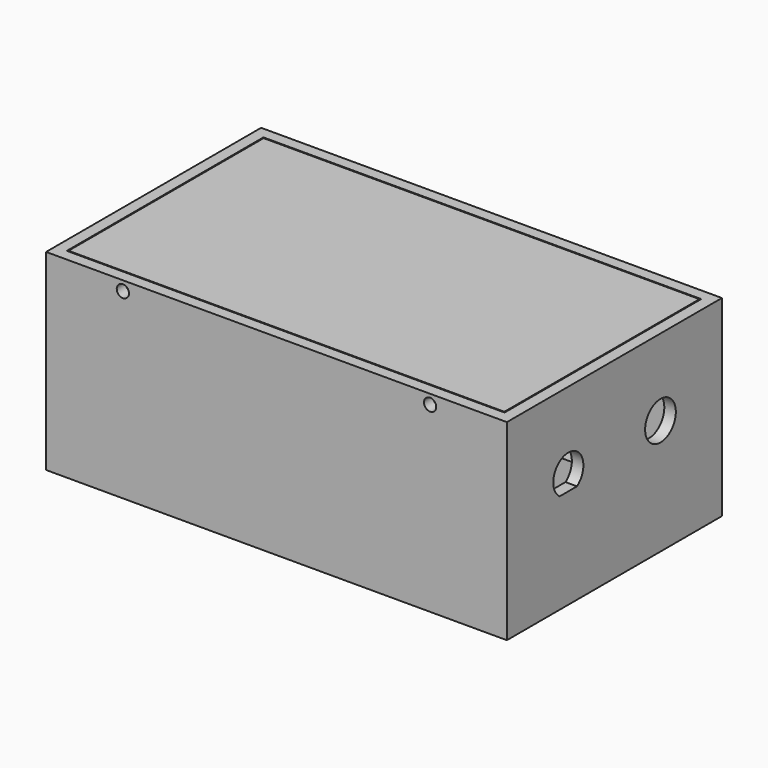
from build123d import *

# Parameters (mm, degrees)
SKETCH_W        = 120
SKETCH_H        = 70
PAD_DEPTH       = 50
SKETCH001_W     = 114
SKETCH001_H     = 64
POCKET_DEPTH    = 40.3
SKETCH002_R     = 2.5
SKETCH002_W     = 97.5
SKETCH002_H     = 40
POCKET001_DEPTH = 9.701
SKETCH003_R     = 5
POCKET002_DEPTH = 5
SKETCH005_R     = 1.6
POCKET003_DEPTH = 70.001
SKETCH004_W     = 113.5
SKETCH004_H     = 63.5
PAD001_DEPTH    = 5
SKETCH006_R     = 1.55
POCKET004_DEPTH = 10


with BuildPart() as box:
    # Sketch → Pad (new body)
    with BuildSketch(Plane.XY):
        Rectangle(SKETCH_W, SKETCH_H)
    extrude(amount=PAD_DEPTH)

    # Sketch001 (on Face6 of Pad) → Pocket (cut)
    with BuildSketch(Plane.XY.offset(50)):
        Rectangle(SKETCH001_W, SKETCH001_H)
    extrude(amount=-POCKET_DEPTH, mode=Mode.SUBTRACT)

    # Sketch002 (on Face11 of Pocket) → Pocket001 (cut, through all)
    with BuildSketch(Plane.XY.offset(9.7)):
        with Locations((-52.5, -27.5)):
            Circle(SKETCH002_R)
        with Locations((-52.5, 27.5)):
            Circle(SKETCH002_R)
        with Locations((40, 27.5)):
            Circle(SKETCH002_R)
        with Locations((40, -27.5)):
            Circle(SKETCH002_R)
        with Locations((-6.25, 0)):
            Rectangle(SKETCH002_W, SKETCH002_H)
    extrude(amount=-POCKET001_DEPTH, mode=Mode.SUBTRACT)

    # Sketch003 (on Face6 of Pocket001) → Pocket002 (cut)
    with BuildSketch(Plane.YZ.offset(60)):
        with Locations((15, 30)):
            Circle(SKETCH003_R)
        with BuildLine():
            ThreePointArc((-12.169806, 26), (-15, 34.9), (-17.830194, 26))
            Line((-17.830194, 26), (-12.169806, 26))
        make_face()
    extrude(amount=-POCKET002_DEPTH, mode=Mode.SUBTRACT)

    # Sketch005 (on Face2 of Pocket002) → Pocket003 (cut, through all)
    with BuildSketch(Plane(origin=(0, 35, 0), x_dir=(-1, 0, 0), z_dir=(0, 1, 0))):
        with Locations((40, 47.5)):
            Circle(SKETCH005_R)
        with Locations((-40, 47.5)):
            Circle(SKETCH005_R)
    extrude(amount=-POCKET003_DEPTH, mode=Mode.SUBTRACT)


with BuildPart() as cover:
    # Sketch004 → Pad001 (new body)
    with BuildSketch(Plane.XY):
        Rectangle(SKETCH004_W, SKETCH004_H)
    extrude(amount=PAD001_DEPTH)

    # Sketch006 (on Face4 of Pad001) → Pocket004 (cut)
    with BuildSketch(Plane(origin=(0, 31.75, 0), x_dir=(-1, 0, 0), z_dir=(0, 1, 0))):
        with Locations((-40, 2.5)):
            Circle(SKETCH006_R)
        with Locations((40, 2.5)):
            Circle(SKETCH006_R)
    pocket004 = extrude(amount=-POCKET004_DEPTH, mode=Mode.SUBTRACT)

    # Mirrored: Pocket004 across XZ
    add(pocket004.mirror(Plane.XZ), mode=Mode.SUBTRACT)


with BuildPart() as cover_1:
    # Body001 placement: moved
    add(cover.part.moved(Location((0, 0, 45))))


solid = Compound([box.part, cover_1.part])
